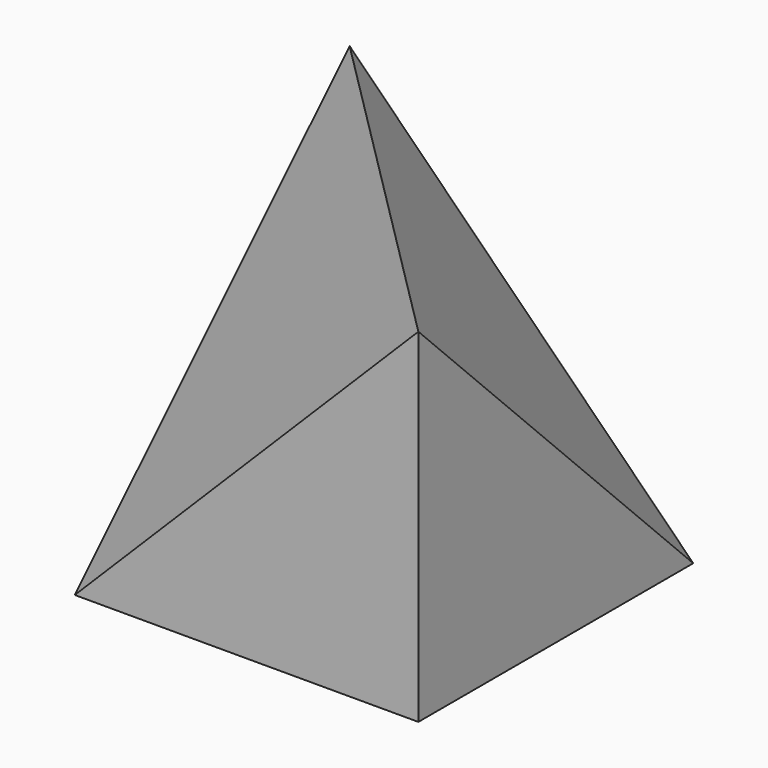
from build123d import *

# Parameters (mm, degrees)
F0_W     = 4
F0_H     = 4
F1_DEPTH = 4
F4_DEPTH = 25
F7_DEPTH = 25


with BuildPart() as f1:
    # F0 (on Top) → F1 (new body)
    with BuildSketch(Plane.XY):
        with Locations((22.0747571118, 21.156716859)):
            Rectangle(F0_W, F0_H)
    extrude(amount=F1_DEPTH)

    # F3 (on 3pt) → F4 (cut)
    with BuildSketch(Plane(origin=(13.0771579903, 13.0771579903, -13.0771579903), x_dir=(0.8164965809, -0.4082482905, 0.4082482905), z_dir=(-0.5773502692, -0.5773502692, 0.5773502692))):
        Polygon((13.4692531218, 16.374271521), (8.5702736362, 19.2026986457), (8.5702736362, 13.5458443962), align=None)
    extrude(amount=F4_DEPTH, mode=Mode.SUBTRACT)

    # F6 (on 3pt) → F7 (cut)
    with BuildSketch(Plane(origin=(15.7438246569, 15.7438246569, 15.7438246569), x_dir=(-0.4082482905, 0.8164965809, -0.4082482905), z_dir=(0.5773502692, 0.5773502692, 0.5773502692))):
        Polygon((9.0789017066, -17.0234240092), (9.0789017066, -11.3665697597), (4.1799222211, -14.1949968844), align=None)
    extrude(amount=F7_DEPTH, mode=Mode.SUBTRACT)


solid = f1.part
